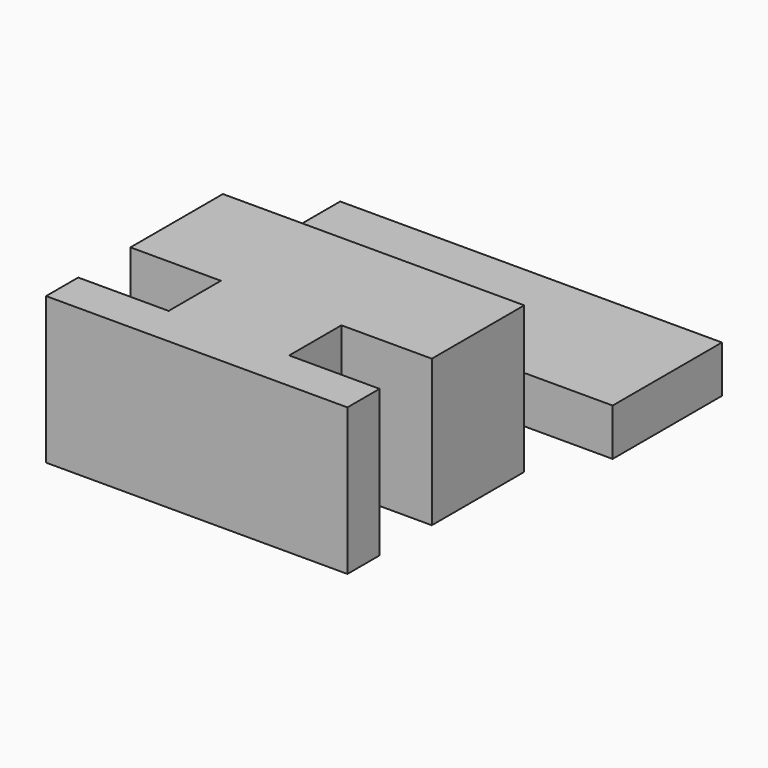
from build123d import *

# Parameters (mm, degrees)
F1_DEPTH = 2.34
F2_DEPTH = 7.3
F3_R     = 1.5
F4_DEPTH = 4.5


with BuildPart() as f1:
    # F0 (on Top) → F1 (new body)
    with BuildSketch(Plane.XY):
        Polygon((-11.837547, 13.173781), (-4.337547, 13.173781), (-2.337547, 13.173781), (-2.337547, 19.972851), (-11.837547, 19.972851), align=None)
        Polygon((-2.337547, 13.173781), (-0.337547, 13.173781), (7.162453, 13.173781), (7.162453, 19.972851), (-2.337547, 19.972851), align=None)
        Polygon((-4.337547, 13.173781), (-4.337547, 10.173781), (-0.337547, 10.173781), (-0.337547, 13.173781), (-2.337547, 13.173781), align=None)
    extrude(amount=F1_DEPTH)

    # F0 (on Top) → F2 (join)
    with BuildSketch(Plane.XY):
        Polygon((-4.337547, 10.173781), (-9.837547, 10.173781), (-9.837547, 4.423781), (-5.337547, 4.423781), (-5.337547, 1.173781), (-9.837547, 1.173781), (-9.837547, -0.826219), (5.162453, -0.826219), (5.162453, 1.173781), (0.662453, 1.173781), (0.662453, 4.423781), (5.162453, 4.423781), (5.162453, 10.173781), (-0.337547, 10.173781), align=None)
    extrude(amount=F2_DEPTH)

    # F3 (on face) → F4 (join)
    with BuildSketch(Plane(origin=(0, 0, 0), x_dir=(1, 0, 0), z_dir=(0, 0, -1))):
        with Locations((-2.347653, -16.573316)):
            Circle(F3_R)
    extrude(amount=F4_DEPTH)


solid = f1.part
